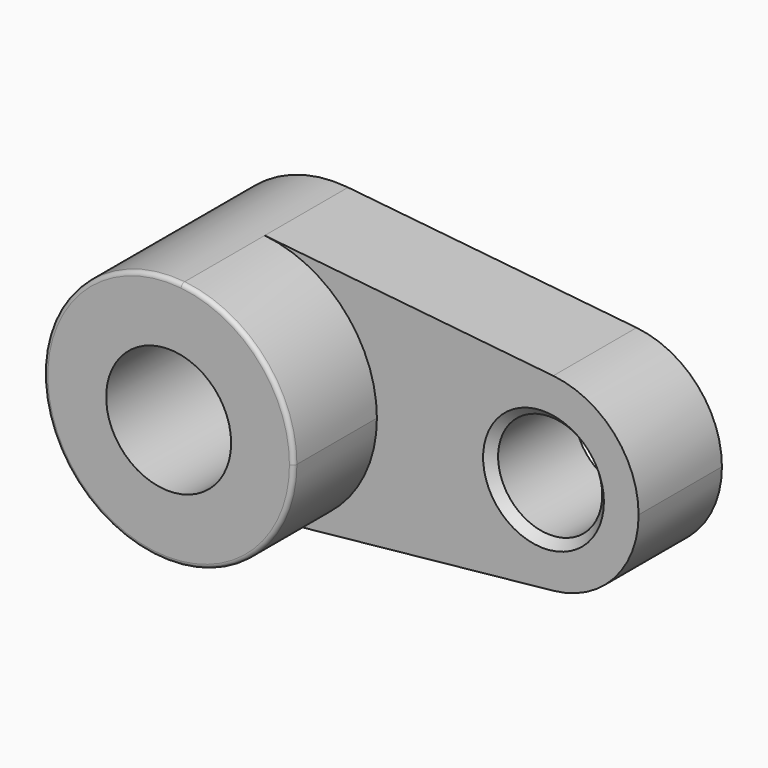
from build123d import *

# Parameters (mm, degrees)
F0_R     = 317.5
F0_R_2   = 381
F1_DEPTH = 635
F2_DEPTH = 1270
F3_R     = 25.4
F4_SIZE  = 50.8


with BuildPart() as f1:
    # F0 (on Front) → F1 (new body)
    with BuildSketch(Plane.XZ):
        with BuildLine():
            ThreePointArc((2358.037624, 0), (2208.624917, 388.59468), (1837.361656, 576.992061))
            ThreePointArc((1837.361656, 576.992061), (1197.962376, 0), (1837.361656, -576.992061))
            ThreePointArc((1837.361656, -576.992061), (2208.624917, -388.59468), (2358.037624, 0))
        make_face()
        with Locations((1778, 0)):
            Circle(F0_R, mode=Mode.SUBTRACT)
        with BuildLine():
            ThreePointArc((77.983876, -757.999021), (565.715349, -510.499896), (762, 0))
            ThreePointArc((762, 0), (565.715349, 510.499896), (77.983876, 757.999021))
            ThreePointArc((77.983876, 757.999021), (-762, 0), (77.983876, -757.999021))
        make_face()
        Circle(F0_R_2, mode=Mode.SUBTRACT)
        with BuildLine():
            ThreePointArc((77.983876, 757.999021), (565.715349, 510.499896), (762, 0))
            ThreePointArc((762, 0), (565.715349, -510.499896), (77.983876, -757.999021))
            Line((77.983876, -757.999021), (1837.361656, -576.992061))
            ThreePointArc((1837.361656, -576.992061), (1197.962376, 0), (1837.361656, 576.992061))
            Line((1837.361656, 576.992061), (77.983876, 757.999021))
        make_face()
    extrude(amount=F1_DEPTH)

    # F0 (on Front) → F2 (join)
    with BuildSketch(Plane.XZ):
        with BuildLine():
            ThreePointArc((77.983876, -757.999021), (565.715349, -510.499896), (762, 0))
            ThreePointArc((762, 0), (565.715349, 510.499896), (77.983876, 757.999021))
            ThreePointArc((77.983876, 757.999021), (-762, 0), (77.983876, -757.999021))
        make_face()
        Circle(F0_R_2, mode=Mode.SUBTRACT)
    extrude(amount=F2_DEPTH)

    # F3
    f3_edges = [f1.edges().sort_by_distance(p)[0] for p in [
        (-77.983876, -1270, 757.999021),
    ]]
    fillet(f3_edges, radius=F3_R)

    # F4
    f4_edges = [f1.edges().sort_by_distance(p)[0] for p in [
        (1460.5, -635, 0),
    ]]
    chamfer(f4_edges, length=F4_SIZE)


solid = f1.part
